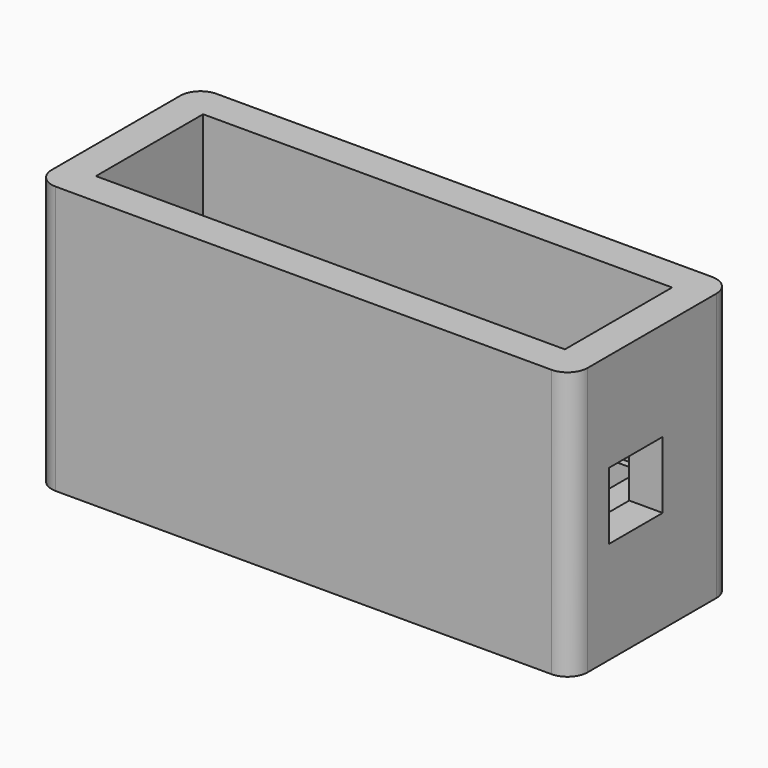
from build123d import *

# Parameters (mm, degrees)
SKETCH_W        = 30
SKETCH_H        = 40
PAD_DEPTH       = 40
SKETCH001_W     = 20
SKETCH001_H     = 70
POCKET_DEPTH    = 25
SKETCH002_W     = 18
SKETCH002_H     = 62
POCKET001_DEPTH = 5
SKETCH003_R     = 1
POCKET002_DEPTH = 5
SKETCH004_W     = 10
SKETCH004_H     = 10
POCKET003_DEPTH = 5
SKETCH005_W     = 10
SKETCH005_H     = 10
POCKET004_DEPTH = 5
FILLET_R        = 3


with BuildPart() as part:
    # Sketch → Pad (new body, symmetric)
    with BuildSketch(Plane.YZ):
        with Locations((-15, 20)):
            Rectangle(SKETCH_W, SKETCH_H)
    extrude(amount=PAD_DEPTH, both=True)

    # Sketch001 (on Face1 of Pad) → Pocket (cut)
    with BuildSketch(Plane(origin=(0, 0, 40), x_dir=(0, -1, 0), z_dir=(0, 0, 1))):
        with Locations((15, 0)):
            Rectangle(SKETCH001_W, SKETCH001_H)
    extrude(amount=-POCKET_DEPTH, mode=Mode.SUBTRACT)

    # Sketch002 (on Face11 of Pocket) → Pocket001 (cut)
    with BuildSketch(Plane(origin=(0, 0, 15), x_dir=(0, -1, 0), z_dir=(0, 0, 1))):
        with Locations((15, 0)):
            Rectangle(SKETCH002_W, SKETCH002_H)
    extrude(amount=-POCKET001_DEPTH, mode=Mode.SUBTRACT)

    # Sketch003 (on Face11 of Pocket001) → Pocket002 (cut)
    with BuildSketch(Plane(origin=(0, 0, 15), x_dir=(0, -1, 0), z_dir=(0, 0, 1))):
        with Locations((7, 33)):
            Circle(SKETCH003_R)
        with Locations((23, -33)):
            Circle(SKETCH003_R)
    extrude(amount=-POCKET002_DEPTH, mode=Mode.SUBTRACT)

    # Sketch004 (on Face3 of Pocket002) → Pocket003 (cut)
    with BuildSketch(Plane(origin=(-40, 0, 0), x_dir=(0, 1, 0), z_dir=(-1, 0, 0))):
        with Locations((-12, -20)):
            Rectangle(SKETCH004_W, SKETCH004_H)
    extrude(amount=-POCKET003_DEPTH, mode=Mode.SUBTRACT)

    # Sketch005 → Pocket004 (cut)
    with BuildSketch(Plane.YZ.offset(40)):
        with Locations((-18, 20.255899)):
            Rectangle(SKETCH005_W, SKETCH005_H)
    extrude(amount=-POCKET004_DEPTH, mode=Mode.SUBTRACT)

    # Fillet
    fillet_edges = [part.edges().sort_by_distance(p)[0] for p in [
        (40, -30, 20),
        (40, 0, 20),
        (-40, 0, 20),
        (-40, -30, 20),
    ]]
    fillet(fillet_edges, radius=FILLET_R)


solid = part.part
